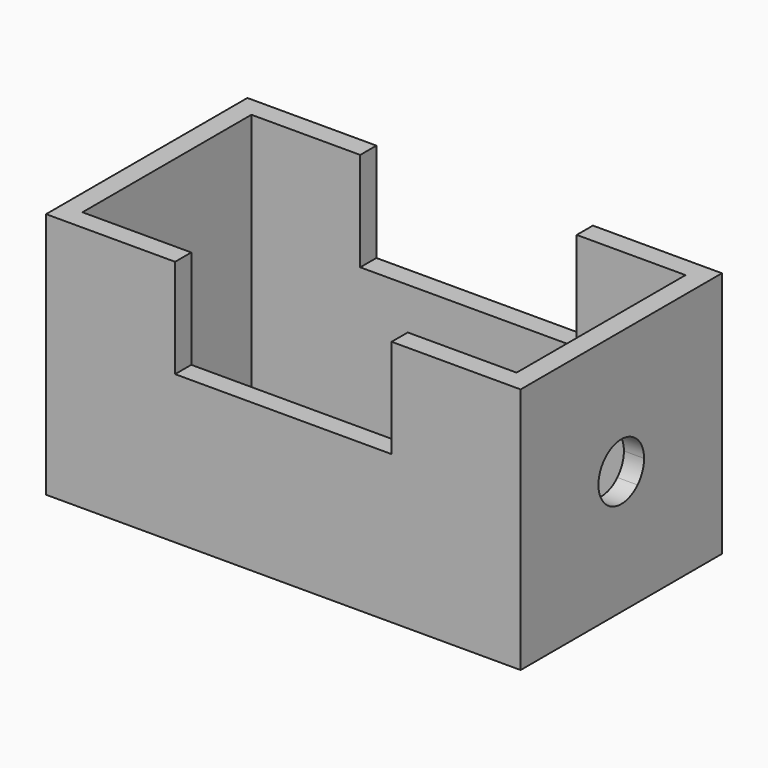
from build123d import *

# Parameters (mm, degrees)
F0_W     = 187.8524124622
F0_H     = 99.6085852385
F0_W_2   = 171.8524098396
F0_H_2   = 83.6085826159
F1_DEPTH = 97.8
F3_DEPTH = 187.8534124622
F4_W     = 85.7032239437
F4_H     = 39.1587115705
F5_DEPTH = 99.6095852385


with BuildPart() as f1:
    # F0 (on Top) → F1 (new body)
    with BuildSketch(Plane.XY):
        Rectangle(F0_W, F0_H)
        Rectangle(F0_W_2, F0_H_2, mode=Mode.SUBTRACT)
    extrude(amount=F1_DEPTH)

    # F2 (on face) → F3 (cut, through all)
    with BuildSketch(Plane.YZ.offset(93.9262062311)):
        with BuildLine():
            Line((0, 48.9), (-8.06236551, 56.8159777743))
            ThreePointArc((-8.06236551, 56.8159777743), (-11.2988690469, 48.9), (-8.06236551, 40.9840222257))
            Line((-8.06236551, 40.9840222257), (0, 48.9))
        make_face()
        with BuildLine():
            Line((8.06236551, 40.9840222257), (0, 48.9))
            Line((0, 48.9), (-8.06236551, 40.9840222257))
            ThreePointArc((-8.06236551, 40.9840222257), (0, 37.6011309531), (8.06236551, 40.9840222257))
        make_face()
        with BuildLine():
            Line((8.06236551, 56.8159777743), (0, 48.9))
            Line((0, 48.9), (8.06236551, 40.9840222257))
            ThreePointArc((8.06236551, 40.9840222257), (10.4584906618, 44.6239720748), (11.2988690469, 48.9))
            ThreePointArc((11.2988690469, 48.9), (10.4584906618, 53.1760279252), (8.06236551, 56.8159777743))
        make_face()
        with BuildLine():
            ThreePointArc((8.06236551, 56.8159777743), (0, 60.1988690469), (-8.06236551, 56.8159777743))
            Line((-8.06236551, 56.8159777743), (0, 48.9))
            Line((0, 48.9), (8.06236551, 56.8159777743))
        make_face()
    extrude(amount=-F3_DEPTH, mode=Mode.SUBTRACT)

    # F4 (on face) → F5 (cut, through all)
    with BuildSketch(Plane.XZ.offset(49.8042926192)):
        with Locations((0, 78.2206442147)):
            Rectangle(F4_W, F4_H)
    extrude(amount=-F5_DEPTH, mode=Mode.SUBTRACT)


solid = f1.part
